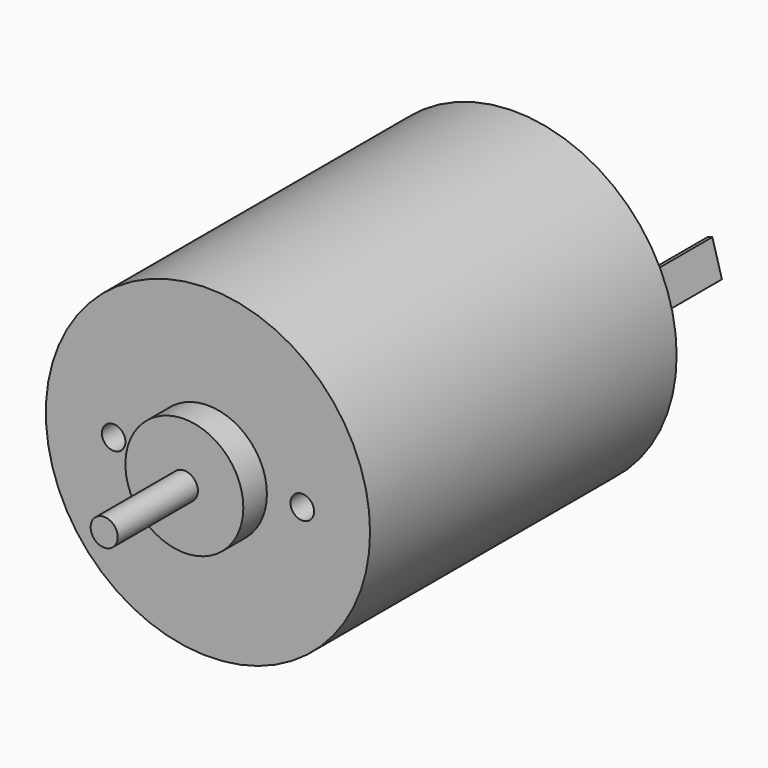
from build123d import *

# Parameters (mm, degrees)
F0_R      = 13.75
F1_DEPTH  = 32.5
F2_R      = 5
F3_DEPTH  = 2.5
F4_R      = 5
F5_DEPTH  = 2.5
F7_D      = 2
F7_DEPTH  = 4
F7_TIP    = 0.600860619
F9_DEPTH  = 8
F10_R     = 1.15
F11_DEPTH = 43.001
F12_R     = 1.15
F13_DEPTH = 38.5
F14_R     = 1.15
F15_DEPTH = 8.5


with BuildPart() as f1:
    # F0 (on Front) → F1 (new body)
    with BuildSketch(Plane.XZ):
        Circle(F0_R)
    extrude(amount=-F1_DEPTH)

    # F2 (on face) → F3 (join)
    with BuildSketch(Plane.XZ):
        Circle(F2_R)
    extrude(amount=F3_DEPTH)

    # F4 (on face) → F5 (join)
    with BuildSketch(Plane(origin=(0, 32.5, 0), x_dir=(-1, 0, 0), z_dir=(0, 1, 0))):
        Circle(F4_R)
    extrude(amount=F5_DEPTH)

    # F7
    with Locations(Plane.XZ):
        with Locations((-8, 0), (8, 0)):
            Hole(F7_D / 2, depth=F7_DEPTH)
            with Locations((0, 0, -(F7_DEPTH + F7_TIP / 2))):  # 118° drill point
                Cone(0, F7_D / 2, F7_TIP, mode=Mode.SUBTRACT)

    # F8 (on face) → F9 (join)
    with BuildSketch(Plane(origin=(0, 32.5, 0), x_dir=(-1, 0, 0), z_dir=(0, 1, 0))):
        Polygon((11.1887406043, -1.5817976137), (10.9961786208, -1.5277616764), (10.8036166373, -1.4737257391), (9.9930775776, -4.3621554911), (10.3782015445, -4.4702273658), align=None)
        Polygon((-10.8036166373, 1.4737257391), (-9.9930775776, 4.3621554911), (-10.3782015445, 4.4702273658), (-11.1887406043, 1.5817976137), (-10.9961786208, 1.5277616764), align=None)
    extrude(amount=F9_DEPTH)

    # F10 (on face) → F11 (cut, through all)
    with BuildSketch(Plane.XZ.offset(2.5)):
        Circle(F10_R)
    extrude(amount=-F11_DEPTH, mode=Mode.SUBTRACT)


with BuildPart() as f13:
    # F12 (on face) → F13 (new body)
    with BuildSketch(Plane.XZ.offset(2.5)):
        Circle(F12_R)
    extrude(amount=-F13_DEPTH)

    # F14 (on face) → F15 (join)
    with BuildSketch(Plane.XZ.offset(2.5)):
        Circle(F14_R)
    extrude(amount=F15_DEPTH)


solid = Compound([f1.part, f13.part])
